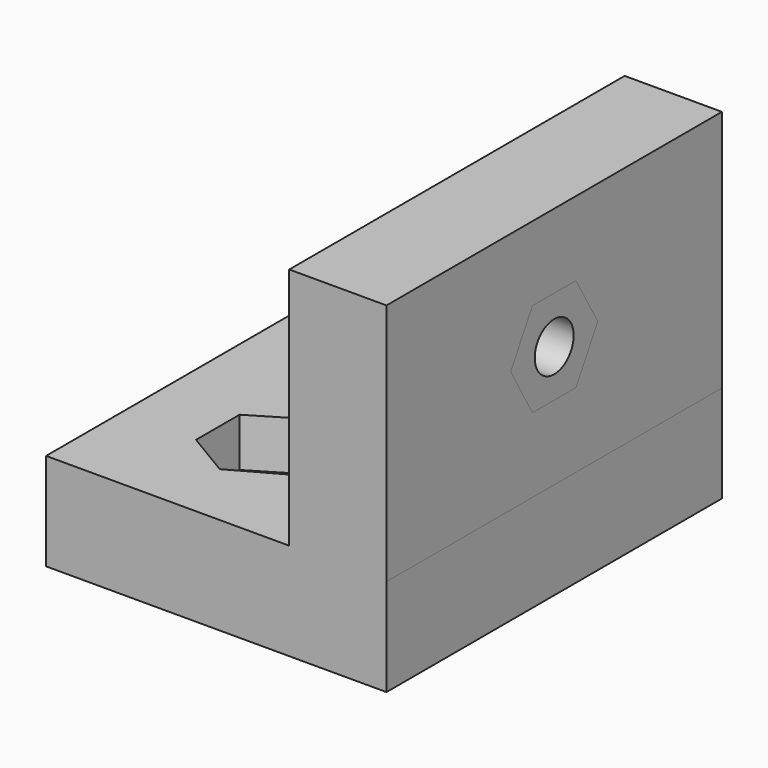
from build123d import *

# Parameters (mm, degrees)
F0_W     = 28
F0_H     = 34.4861291724
F1_DEPTH = 8
F0_R     = 2
F2_DEPTH = 4
F4_START = 10
F4_DEPTH = 7.9999894
F5_START = 14
F3_R     = 2
F5_DEPTH = 4


with BuildPart() as f1:
    # F0 (on Top) → F1 (new body)
    with BuildSketch(Plane.XY):
        with Locations((4, 7.2430645862)):
            Rectangle(F0_W, F0_H)
        Polygon((3.875, 2.2372322931), (3.875, -2.2372322931), (-0.1381988935, -4.4744645862), (-3.875, -2.2372322931), (-3.875, 2.2372322931), (-0.1381988935, 4.4744645862), align=None, mode=Mode.SUBTRACT)
        Polygon((3.875, 16.7116968793), (3.875, 12.2372322931), (0, 10), (-3.875, 12.2372322931), (-3.875, 16.7116968793), (0, 18.9489291724), align=None, mode=Mode.SUBTRACT)
    extrude(amount=F1_DEPTH)

    # F0 (on Top) → F2 (join)
    with BuildSketch(Plane.XY):
        Polygon((0, 10), (3.875, 12.2372322931), (3.875, 16.7116968793), (0, 18.9489291724), (-3.875, 16.7116968793), (-3.875, 12.2372322931), align=None)
        with Locations((0, 14.4744645862)):
            Circle(F0_R, mode=Mode.SUBTRACT)
        Polygon((-0.1381988935, -4.4744645862), (3.875, -2.2372322931), (3.875, 2.2372322931), (-0.1381988935, 4.4744645862), (-3.875, 2.2372322931), (-3.875, -2.2372322931), align=None)
        Circle(F0_R, mode=Mode.SUBTRACT)
    extrude(amount=F2_DEPTH)

    # F3 (on Right) → F4 (join)
    with BuildSketch(Plane.YZ.offset(F4_START)):
        Polygon((-10, 27.9999948), (-10, 0), (24.4861291724, 0), (24.4861291724, 27.9999948), (7.2430645862, 27.9999948), align=None)
        Polygon((2.7686, 18.0050948), (5.0058322931, 21.8800948), (9.4802968793, 21.8800948), (11.7175291724, 18.0050948), (9.4802968793, 14.1300948), (5.0058322931, 14.1300948), align=None, mode=Mode.SUBTRACT)
    extrude(amount=F4_DEPTH)

    # F3 (on Right) → F5 (join)
    with BuildSketch(Plane.YZ.offset(F5_START)):
        Polygon((9.4802968793, 21.8800948), (5.0058322931, 21.8800948), (2.7686, 18.0050948), (5.0058322931, 14.1300948), (9.4802968793, 14.1300948), (11.7175291724, 18.0050948), align=None)
        with Locations((7.2430645862, 18.0050948)):
            Circle(F3_R, mode=Mode.SUBTRACT)
    extrude(amount=F5_DEPTH)


solid = f1.part
